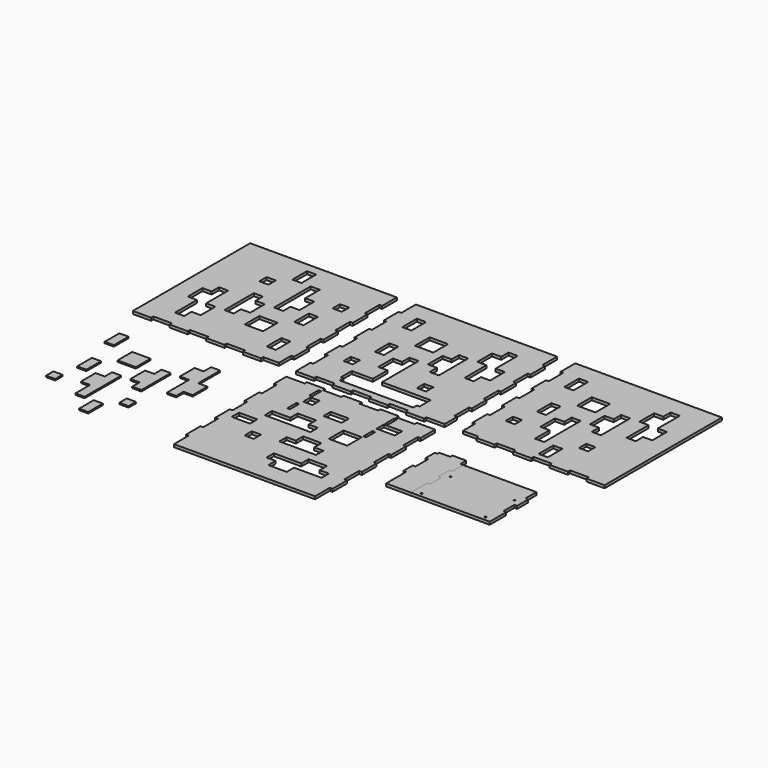
from build123d import *

# Parameters (mm, degrees)
F1_DEPTH  = 6
F2_ANGLE  = 180
F4_W      = 6
F4_H      = 30
F4_H_2    = 25
F5_DEPTH  = 6.001
F6_DEPTH  = 6.001
F8_DEPTH  = 6
F9_DEPTH  = 6
F10_D     = 3.3
F11_W     = 20
F11_H     = 20
F11_H_2   = 40
F11_W_2   = 40
F12_DEPTH = 6.001
F13_W     = 20
F13_H     = 20
F13_W_2   = 40
F13_H_2   = 40
F14_DEPTH = 6.001
F16_DEPTH = 6
F19_W     = 20
F19_H     = 20
F19_H_2   = 40
F19_W_2   = 40
F20_DEPTH = 6.001
F21_W     = 20
F21_H     = 20
F21_H_2   = 40
F21_W_2   = 40
F22_DEPTH = 6.001
F23_W     = 20
F23_H     = 20
F24_DEPTH = 3
F23_H_2   = 40
F23_W_2   = 40


with BuildPart() as f1:
    # F0 (on Top) → F1 (new body)
    with BuildSketch(Plane.XY):
        Polygon((0, 40), (0, 0), (40, 0), (40, 6), (80, 6), (80, 0), (120, 0), (120, 6), (160, 6), (160, 0), (200, 0), (200, 6), (240, 6), (240, 0), (280, 0), (280, 6), (320, 6), (320, 40), (314, 40), (314, 80), (320, 80), (320, 120), (314, 120), (314, 160), (320, 160), (320, 200), (314, 200), (314, 240), (320, 240), (320, 280), (314, 280), (314, 320), (6, 320), (6, 280), (0, 280), (0, 240), (6, 240), (6, 200), (0, 200), (0, 160), (6, 160), (6, 120), (0, 120), (0, 80), (6, 80), (6, 40), align=None)
    extrude(amount=F1_DEPTH)


with BuildPart() as f2_1:
    # F2: copy of F1
    add(f1.part.rotate(Axis((0, 0, 3), (0, 0, -1)), F2_ANGLE))


with BuildPart() as f2_1_1:
    # F3: moved
    add(f2_1.part.moved(Location((320, -20, 0))))


with BuildPart() as f5_tool:
    # F4 (on face) → F5 (new body, through all)
    with BuildSketch(Plane.XY.offset(6)):
        with Locations((77, 45)):
            Rectangle(F4_W, F4_H)
        Polygon((240, 60), (80, 60), (80, 30), (80, 20), (240, 20), (240, 30), align=None)
        with Locations((243, 45)):
            Rectangle(F4_W, F4_H)
        with Locations((77, -43.5)):
            Rectangle(F4_W, F4_H_2)
        with Locations((77, -103.5)):
            Rectangle(F4_W, F4_H_2)
        with Locations((243, -103.5)):
            Rectangle(F4_W, F4_H_2)
        with Locations((243, -43.5)):
            Rectangle(F4_W, F4_H_2)
    extrude(amount=-F5_DEPTH)


with BuildPart() as f1_1:
    add(f1.part)

    # F5: cut by f5_tool
    add(f5_tool.part, mode=Mode.SUBTRACT)

    # F4 (on face) → F6 (cut, through all)
    with BuildSketch(Plane.XY.offset(6)):
        with Locations((77, -43.5)):
            Rectangle(F4_W, F4_H_2)
        with Locations((243, -43.5)):
            Rectangle(F4_W, F4_H_2)
        with Locations((77, -103.5)):
            Rectangle(F4_W, F4_H_2)
        with Locations((243, -103.5)):
            Rectangle(F4_W, F4_H_2)
    extrude(amount=-F6_DEPTH, mode=Mode.SUBTRACT)

    # F11 (on face) → F12 (cut, through all)
    with BuildSketch(Plane.XY.offset(6)):
        with Locations((50, 90)):
            Rectangle(F11_W, F11_H)
        with Locations((70, 160)):
            Rectangle(F11_W, F11_H_2)
        with Locations((50, 260)):
            Rectangle(F11_W, F11_H_2)
        Polygon((120, 140), (100, 140), (100, 100), (120, 100), (120, 60), (140, 60), (140, 160), (120, 160), align=None)
        with Locations((170, 40)):
            Rectangle(F11_W, F11_H_2)
        with Locations((210, 90)):
            Rectangle(F11_W, F11_H)
        Polygon((160, 160), (180, 160), (180, 140), (200, 140), (200, 220), (180, 220), (180, 200), (160, 200), align=None)
        with Locations((120, 220)):
            Rectangle(F11_W_2, F11_H_2)
        Polygon((260, 220), (260, 280), (240, 280), (240, 260), (220, 260), (220, 220), (240, 220), (240, 160), (260, 160), (260, 180), (280, 180), (280, 220), align=None)
    extrude(amount=-F12_DEPTH, mode=Mode.SUBTRACT)


with BuildPart() as f2_1_2:
    add(f2_1_1.part)

    # F5: cut by f5_tool
    add(f5_tool.part, mode=Mode.SUBTRACT)

    # F13 (on face) → F14 (cut, through all)
    with BuildSketch(Plane.XY.offset(6)):
        with Locations((90, -70)):
            Rectangle(F13_W, F13_H)
        with Locations((160, -90)):
            Rectangle(F13_W_2, F13_H)
        with Locations((260, -70)):
            Rectangle(F13_W_2, F13_H)
        Polygon((140, -140), (140, -120), (100, -120), (100, -140), (60, -140), (60, -160), (160, -160), (160, -140), align=None)
        with Locations((40, -190)):
            Rectangle(F13_W_2, F13_H)
        with Locations((90, -230)):
            Rectangle(F13_W, F13_H)
        Polygon((200, -180), (160, -180), (160, -200), (140, -200), (140, -220), (220, -220), (220, -200), (200, -200), align=None)
        with Locations((220, -140)):
            Rectangle(F13_W_2, F13_H_2)
        Polygon((220, -280), (280, -280), (280, -260), (260, -260), (260, -240), (220, -240), (220, -260), (160, -260), (160, -280), (180, -280), (180, -300), (220, -300), align=None)
    extrude(amount=-F14_DEPTH, mode=Mode.SUBTRACT)


with BuildPart() as f8:
    # F7 (on Top) → F8 (new body)
    with BuildSketch(Plane.XY):
        Polygon((402.9031198025, -82.371724546), (378.9031198025, -82.371724546), (378.9031198025, -87.371724546), (372.9031198025, -87.371724546), (372.9031198025, -112.371724546), (378.9031198025, -112.371724546), (378.9031198025, -147.371724546), (372.9031198025, -147.371724546), (372.9031198025, -172.371724546), (378.9031198025, -172.371724546), (378.9031198025, -227.371724546), (432.9031198025, -227.371724546), (432.9031198025, -182.371724546), (438.9031198025, -182.371724546), (438.9031198025, -152.371724546), (432.9031198025, -152.371724546), (432.9031198025, -122.371724546), (438.9031198025, -122.371724546), (438.9031198025, -92.371724546), (432.9031198025, -92.371724546), (432.9031198025, -76.371724546), (402.9031198025, -76.371724546), align=None)
    extrude(amount=F8_DEPTH)


with BuildPart() as f9:
    # F7 (on Top) → F9 (new body)
    with BuildSketch(Plane.XY):
        Polygon((598.9031198025, -92.371724546), (438.9031198025, -92.371724546), (438.9031198025, -122.371724546), (432.9031198025, -122.371724546), (432.9031198025, -152.371724546), (438.9031198025, -152.371724546), (438.9031198025, -182.371724546), (432.9031198025, -182.371724546), (432.9031198025, -227.371724546), (518.9031198025, -227.371724546), (604.9031198025, -227.371724546), (604.9031198025, -182.371724546), (598.9031198025, -182.371724546), (598.9031198025, -152.371724546), (604.9031198025, -152.371724546), (604.9031198025, -122.371724546), (598.9031198025, -122.371724546), align=None)
    extrude(amount=F9_DEPTH)

    # F10 (through all)
    with Locations(Plane(origin=(0, 0, 0), x_dir=(1, 0, 0), z_dir=(0, 0, -1))):
        with Locations((449.2031198025, 139.371724546), (588.6031198025, 139.371724546), (449.2031198025, 218.371724546), (588.6031198025, 218.371724546)):
            Hole(F10_D / 2)


with BuildPart() as f16:
    # F15 (on Top) → F16 (new body)
    with BuildSketch(Plane.XY):
        Polygon((673.7319126129, 320), (353.7319126129, 320), (353.7319126129, 280), (359.7319126129, 280), (359.7319126129, 240), (353.7319126129, 240), (353.7319126129, 200), (359.7319126129, 200), (359.7319126129, 160), (353.7319126129, 160), (353.7319126129, 120), (359.7319126129, 120), (359.7319126129, 80), (353.7319126129, 80), (353.7319126129, 40), (359.7319126129, 40), (359.7319126129, 6), (393.7319126129, 6), (393.7319126129, 0), (433.7319126129, 0), (433.7319126129, 6), (473.7319126129, 6), (473.7319126129, 0), (513.7319126129, 0), (513.7319126129, 6), (553.7319126129, 6), (553.7319126129, 0), (593.7319126129, 0), (593.7319126129, 6), (633.7319126129, 6), (633.7319126129, 0), (673.7319126129, 0), align=None)
    extrude(amount=F16_DEPTH)


with BuildPart() as f17_1:
    # F17: instance of F16
    add(f16.part.mirror(Plane.YZ))


with BuildPart() as f17_1_1:
    # F18: moved
    add(f17_1.part.moved(Location((318, 0, 0))))

    # F21 (on face) → F22 (cut, through all)
    with BuildSketch(Plane.XY.offset(6)):
        with Locations((-85.7319126129, 230)):
            Rectangle(F21_W, F21_H)
        with Locations((-105.7319126129, 160)):
            Rectangle(F21_W, F21_H_2)
        with Locations((-85.7319126129, 60)):
            Rectangle(F21_W, F21_H_2)
        Polygon((-155.7319126129, 180), (-135.7319126129, 180), (-135.7319126129, 220), (-155.7319126129, 220), (-155.7319126129, 260), (-175.7319126129, 260), (-175.7319126129, 160), (-155.7319126129, 160), align=None)
        with Locations((-205.7319126129, 280)):
            Rectangle(F21_W, F21_H_2)
        with Locations((-245.7319126129, 230)):
            Rectangle(F21_W, F21_H)
        Polygon((-195.7319126129, 120), (-195.7319126129, 160), (-215.7319126129, 160), (-215.7319126129, 180), (-235.7319126129, 180), (-235.7319126129, 100), (-215.7319126129, 100), (-215.7319126129, 120), align=None)
        with Locations((-155.7319126129, 100)):
            Rectangle(F21_W_2, F21_H_2)
        Polygon((-295.7319126129, 100), (-295.7319126129, 40), (-275.7319126129, 40), (-275.7319126129, 60), (-255.7319126129, 60), (-255.7319126129, 100), (-275.7319126129, 100), (-275.7319126129, 160), (-295.7319126129, 160), (-295.7319126129, 140), (-315.7319126129, 140), (-315.7319126129, 100), align=None)
    extrude(amount=-F22_DEPTH, mode=Mode.SUBTRACT)


with BuildPart() as f16_1:
    add(f16.part)

    # F19 (on face) → F20 (cut, through all)
    with BuildSketch(Plane.XY.offset(6)):
        with Locations((403.7319126129, 90)):
            Rectangle(F19_W, F19_H)
        with Locations((423.7319126129, 160)):
            Rectangle(F19_W, F19_H_2)
        with Locations((403.7319126129, 260)):
            Rectangle(F19_W, F19_H_2)
        Polygon((473.7319126129, 140), (453.7319126129, 140), (453.7319126129, 100), (473.7319126129, 100), (473.7319126129, 60), (493.7319126129, 60), (493.7319126129, 160), (473.7319126129, 160), align=None)
        with Locations((523.7319126129, 40)):
            Rectangle(F19_W, F19_H_2)
        with Locations((563.7319126129, 90)):
            Rectangle(F19_W, F19_H)
        Polygon((513.7319126129, 160), (533.7319126129, 160), (533.7319126129, 140), (553.7319126129, 140), (553.7319126129, 220), (533.7319126129, 220), (533.7319126129, 200), (513.7319126129, 200), align=None)
        with Locations((473.7319126129, 220)):
            Rectangle(F19_W_2, F19_H_2)
        Polygon((613.7319126129, 220), (613.7319126129, 280), (593.7319126129, 280), (593.7319126129, 260), (573.7319126129, 260), (573.7319126129, 220), (593.7319126129, 220), (593.7319126129, 160), (613.7319126129, 160), (613.7319126129, 180), (633.7319126129, 180), (633.7319126129, 220), align=None)
    extrude(amount=-F20_DEPTH, mode=Mode.SUBTRACT)


with BuildPart() as f24:
    # F23 (on Top) → F24 (new body)
    with BuildSketch(Plane.XY):
        with Locations((-315.6833064556, -264.1798090935)):
            Rectangle(F23_W, F23_H)
    extrude(amount=F24_DEPTH)


with BuildPart() as f24b:
    # F23 (on Top) → F24, piece 2 (new body)
    with BuildSketch(Plane.XY):
        with Locations((-295.6833064556, -194.1798090935)):
            Rectangle(F23_W, F23_H_2)
    extrude(amount=F24_DEPTH)


with BuildPart() as f24c:
    # F23 (on Top) → F24, piece 3 (new body)
    with BuildSketch(Plane.XY):
        with Locations((-315.6833064556, -94.1798090935)):
            Rectangle(F23_W, F23_H_2)
    extrude(amount=F24_DEPTH)


with BuildPart() as f24d:
    # F23 (on Top) → F24, piece 4 (new body)
    with BuildSketch(Plane.XY):
        Polygon((-245.6833064556, -214.1798090935), (-265.6833064556, -214.1798090935), (-265.6833064556, -254.1798090935), (-245.6833064556, -254.1798090935), (-245.6833064556, -294.1798090935), (-225.6833064556, -294.1798090935), (-225.6833064556, -194.1798090935), (-245.6833064556, -194.1798090935), align=None)
    extrude(amount=F24_DEPTH)


with BuildPart() as f24e:
    # F23 (on Top) → F24, piece 5 (new body)
    with BuildSketch(Plane.XY):
        with Locations((-195.6833064556, -314.1798090935)):
            Rectangle(F23_W, F23_H_2)
    extrude(amount=F24_DEPTH)


with BuildPart() as f24f:
    # F23 (on Top) → F24, piece 6 (new body)
    with BuildSketch(Plane.XY):
        with Locations((-155.6833064556, -264.1798090935)):
            Rectangle(F23_W, F23_H)
    extrude(amount=F24_DEPTH)


with BuildPart() as f24g:
    # F23 (on Top) → F24, piece 7 (new body)
    with BuildSketch(Plane.XY):
        Polygon((-205.6833064556, -194.1798090935), (-185.6833064556, -194.1798090935), (-185.6833064556, -214.1798090935), (-165.6833064556, -214.1798090935), (-165.6833064556, -134.1798090935), (-185.6833064556, -134.1798090935), (-185.6833064556, -154.1798090935), (-205.6833064556, -154.1798090935), align=None)
    extrude(amount=F24_DEPTH)


with BuildPart() as f24h:
    # F23 (on Top) → F24, piece 8 (new body)
    with BuildSketch(Plane.XY):
        with Locations((-245.6833064556, -134.1798090935)):
            Rectangle(F23_W_2, F23_H_2)
    extrude(amount=F24_DEPTH)


with BuildPart() as f24i:
    # F23 (on Top) → F24, piece 9 (new body)
    with BuildSketch(Plane.XY):
        Polygon((-105.6833064556, -134.1798090935), (-105.6833064556, -74.1798090935), (-125.6833064556, -74.1798090935), (-125.6833064556, -94.1798090935), (-145.6833064556, -94.1798090935), (-145.6833064556, -134.1798090935), (-125.6833064556, -134.1798090935), (-125.6833064556, -194.1798090935), (-105.6833064556, -194.1798090935), (-105.6833064556, -174.1798090935), (-85.6833064556, -174.1798090935), (-85.6833064556, -134.1798090935), align=None)
    extrude(amount=F24_DEPTH)


solid = Compound([f1_1.part, f2_1_2.part, f8.part, f9.part, f17_1_1.part, f16_1.part, f24.part, f24b.part, f24c.part, f24d.part, f24e.part, f24f.part, f24g.part, f24h.part, f24i.part])
